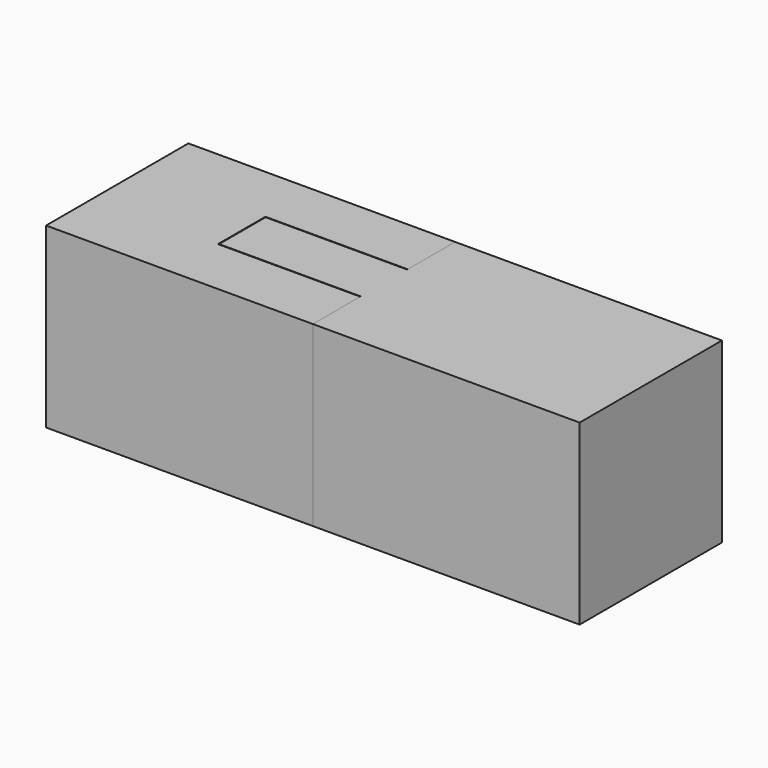
from build123d import *

# Parameters (mm, degrees)
SKETCH_W        = 45
SKETCH_H        = 30
PAD_DEPTH       = 30
SKETCH001_W     = 10
SKETCH001_H     = 6
POCKET_DEPTH    = 20
SKETCH002_W     = 10
SKETCH002_H     = 3
POCKET001_DEPTH = 20
POCKET002_DEPTH = 5
SKETCH004_W     = 45
SKETCH004_H     = 30
PAD001_DEPTH    = 30
SKETCH005_W     = 9.8
SKETCH005_H     = 5.8
PAD002_DEPTH    = 19.9
SKETCH006_W     = 9.8
SKETCH006_H     = 2.9
PAD003_DEPTH    = 20.1
PAD004_DEPTH    = 9.8


with BuildPart() as female:
    # Sketch → Pad (new body)
    with BuildSketch(Plane.XY):
        with Locations((-22.5, 0)):
            Rectangle(SKETCH_W, SKETCH_H)
    extrude(amount=PAD_DEPTH)

    # Sketch001 (on Face4 of Pad) → Pocket (cut)
    with BuildSketch(Plane.YZ):
        with Locations((0, 15)):
            Rectangle(SKETCH001_W, SKETCH001_H)
    extrude(amount=-POCKET_DEPTH, mode=Mode.SUBTRACT)

    # Sketch002 (on Face2 of Pocket) → Pocket001 (cut)
    with BuildSketch(Plane.YZ):
        with Locations((0, 28.5)):
            Rectangle(SKETCH002_W, SKETCH002_H)
    extrude(amount=-POCKET001_DEPTH, mode=Mode.SUBTRACT)

    # Sketch003 → Pocket002 (cut, symmetric)
    with BuildSketch(Plane.XZ):
        Polygon((-20, 30), (-20, 26), (-24, 30), align=None)
    extrude(amount=POCKET002_DEPTH, both=True, mode=Mode.SUBTRACT)


with BuildPart() as male:
    # Sketch004 → Pad001 (new body)
    with BuildSketch(Plane.XY):
        with Locations((22.5, 0)):
            Rectangle(SKETCH004_W, SKETCH004_H)
    extrude(amount=PAD001_DEPTH)

    # Sketch005 (on Face4 of Pad001) → Pad002 (join)
    with BuildSketch(Plane(origin=(0, 0, 0), x_dir=(0, -1, 0), z_dir=(-1, 0, 0))):
        with Locations((0, 15)):
            Rectangle(SKETCH005_W, SKETCH005_H)
    extrude(amount=PAD002_DEPTH)

    # Sketch006 (on Face2 of Pad002) → Pad003 (join)
    with BuildSketch(Plane(origin=(0, 0, 0), x_dir=(0, -1, 0), z_dir=(-1, 0, 0))):
        with Locations((0, 28.55)):
            Rectangle(SKETCH006_W, SKETCH006_H)
    extrude(amount=PAD003_DEPTH)

    # Sketch007 (on Face6 of Pad003) → Pad004 (join)
    with BuildSketch(Plane.XZ.offset(4.9)):
        Polygon((-20.1, 30), (-20.1, 26.2), (-23.9, 30), align=None)
    extrude(amount=-PAD004_DEPTH)


solid = Compound([female.part, male.part])
